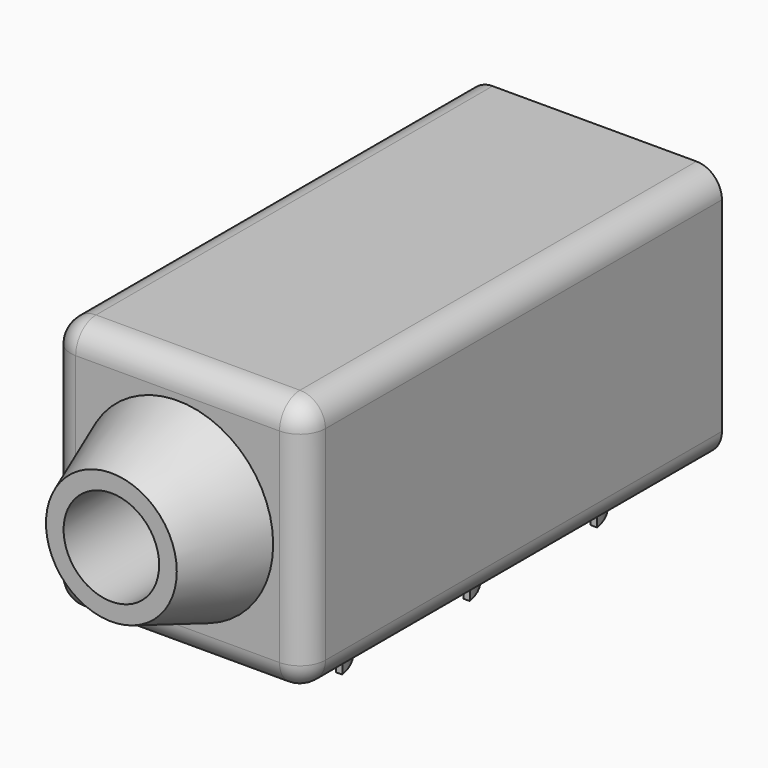
from build123d import *

# Parameters (mm, degrees)
F0_W      = 50.8
F0_H      = 50.8
F1_DEPTH  = 101.6
F3_DEPTH  = 12.7
F5_DEPTH  = 25.4
F7_DEPTH  = 8.89
F8_W      = 50.8
F8_H      = 50.8
F9_DEPTH  = 2.286
F10_R     = 19.05
F11_DEPTH = 16.51
F11_TAPER = 20
F12_R     = 9.525
F13_DEPTH = 25.4
F14_R     = 5.08
F15_R     = 5.08


with BuildPart() as f1:
    # F0 (on Front) → F1 (new body)
    with BuildSketch(Plane.XZ):
        with Locations((-25.4, 25.4)):
            Rectangle(F0_W, F0_H)
        Polygon((-48.26, 12.192), (-48.26, 48.26), (-2.54, 48.26), (-2.54, 12.1909337732), (-9.652, 12.1909337732), (-9.652, 9.6509337732), (-7.112, 9.6509337732), (-7.112, 7.1109337732), (-9.6097155579, 7.1109337732), (-9.6097155579, 2.54), (-41.1057155579, 2.54), (-41.1057155579, 7.112), (-43.688, 7.112), (-43.688, 9.652), (-41.148, 9.652), (-41.148, 12.192), align=None, mode=Mode.SUBTRACT)
    extrude(amount=F1_DEPTH)

    # F2 (on face) → F3 (cut)
    with BuildSketch(Plane(origin=(-50.8, 0, 0), x_dir=(0, -1, 0), z_dir=(-1, 0, 0))):
        with BuildLine():
            ThreePointArc((63.5, 25.4), (57.15, 31.75), (50.8, 25.4))
            Line((50.8, 25.4), (63.5, 25.4))
        make_face()
        with BuildLine():
            ThreePointArc((88.9, 25.4), (82.55, 31.75), (76.2, 25.4))
            Line((76.2, 25.4), (88.9, 25.4))
        make_face()
        with BuildLine():
            Line((88.9, 25.4), (76.2, 25.4))
            ThreePointArc((76.2, 25.4), (82.55, 19.05), (88.9, 25.4))
        make_face()
        with BuildLine():
            Line((63.5, 25.4), (50.8, 25.4))
            ThreePointArc((50.8, 25.4), (57.15, 19.05), (63.5, 25.4))
        make_face()
    extrude(amount=-F3_DEPTH, mode=Mode.SUBTRACT)

    # F4 (on face) → F5 (cut)
    with BuildSketch(Plane(origin=(0, 0, 0), x_dir=(1, 0, 0), z_dir=(0, 0, -1))):
        with BuildLine():
            ThreePointArc((-25.4, 29.21), (-35.56, 19.05), (-25.4, 8.89))
            Line((-25.4, 8.89), (-25.4, 29.21))
        make_face()
        with BuildLine():
            ThreePointArc((-25.4, 92.71), (-35.56, 82.55), (-25.4, 72.39))
            Line((-25.4, 72.39), (-25.4, 92.71))
        make_face()
        with BuildLine():
            Line((-25.4, 92.71), (-25.4, 72.39))
            ThreePointArc((-25.4, 72.39), (-18.2157951031, 75.3657951031), (-15.24, 82.55))
            ThreePointArc((-15.24, 82.55), (-18.2157951031, 89.7342048969), (-25.4, 92.71))
        make_face()
        with BuildLine():
            ThreePointArc((-25.4, 60.96), (-35.56, 50.8), (-25.4, 40.64))
            Line((-25.4, 40.64), (-25.4, 60.96))
        make_face()
        with BuildLine():
            Line((-25.4, 60.96), (-25.4, 40.64))
            ThreePointArc((-25.4, 40.64), (-18.2157951031, 43.6157951031), (-15.24, 50.8))
            ThreePointArc((-15.24, 50.8), (-18.2157951031, 57.9842048969), (-25.4, 60.96))
        make_face()
        with BuildLine():
            Line((-25.4, 29.21), (-25.4, 8.89))
            ThreePointArc((-25.4, 8.89), (-18.2157951031, 11.8657951031), (-15.24, 19.05))
            ThreePointArc((-15.24, 19.05), (-18.2157951031, 26.2342048969), (-25.4, 29.21))
        make_face()
    extrude(amount=-F5_DEPTH, mode=Mode.SUBTRACT)

    # F6 (on face) → F7 (join)
    with BuildSketch(Plane(origin=(0, 0, 0), x_dir=(1, 0, 0), z_dir=(0, 0, -1))):
        with BuildLine():
            ThreePointArc((-12.9565921067, 16.51), (-25.4, 6.35), (-37.8434078933, 16.51))
            Line((-37.8434078933, 16.51), (-39.1371503595, 16.51))
            ThreePointArc((-39.1371503595, 16.51), (-25.4, 5.08), (-11.6628496405, 16.51))
            Line((-11.6628496405, 16.51), (-12.9565921067, 16.51))
        make_face()
        with BuildLine():
            ThreePointArc((-12.9565921067, 48.26), (-25.4, 38.1), (-37.8434078933, 48.26))
            Line((-37.8434078933, 48.26), (-39.1371503595, 48.26))
            ThreePointArc((-39.1371503595, 48.26), (-25.4, 36.83), (-11.6628496405, 48.26))
            Line((-11.6628496405, 48.26), (-12.9565921067, 48.26))
        make_face()
        with BuildLine():
            ThreePointArc((-12.9565921067, 80.01), (-25.4, 69.85), (-37.8434078933, 80.01))
            Line((-37.8434078933, 80.01), (-39.1371503595, 80.01))
            ThreePointArc((-39.1371503595, 80.01), (-25.4, 68.58), (-11.6628496405, 80.01))
            Line((-11.6628496405, 80.01), (-12.9565921067, 80.01))
        make_face()
    extrude(amount=F7_DEPTH)

    # F8 (on face) → F9 (join)
    with BuildSketch(Plane.XZ.offset(101.6)):
        with Locations((-25.4, 25.4)):
            Rectangle(F8_W, F8_H)
    extrude(amount=F9_DEPTH)

    # F10 (on face) → F11 (join)
    with BuildSketch(Plane.XZ.offset(103.886)):
        with Locations((-25.4, 25.4)):
            Circle(F10_R)
    extrude(amount=F11_DEPTH, taper=F11_TAPER)

    # F12 (on face) → F13 (cut)
    with BuildSketch(Plane.XZ.offset(120.396)):
        with Locations((-25.4, 25.4)):
            Circle(F12_R)
    extrude(amount=-F13_DEPTH, mode=Mode.SUBTRACT)

    # F14
    f14_edges = [f1.edges().sort_by_distance(p)[0] for p in [
        (0, -51.943, 0),
        (-50.8, -51.943, 0),
        (-50.8, -51.943, 50.8),
        (0, -51.943, 50.8),
    ]]
    fillet(f14_edges, radius=F14_R)

    # F15
    f15_edges = [f1.edges().sort_by_distance(p)[0] for p in [
        (-25.4, -103.886, 50.8),
    ]]
    fillet(f15_edges, radius=F15_R)


solid = f1.part
